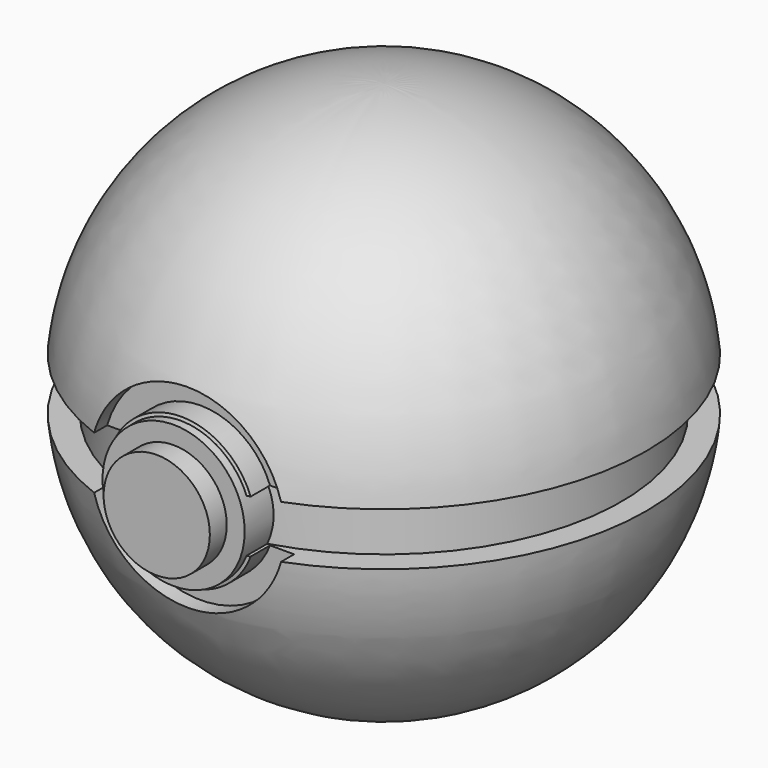
from build123d import *

# Parameters (mm, degrees)
F2_R     = 17.099634
F3_DEPTH = 63.246
F4_R     = 12.78065
F5_DEPTH = 5.08
F6_R     = 23.369036
F6_R_2   = 17.859531
F7_DEPTH = 13.208


with BuildPart() as f1:
    # F0 (on Front) → F1 (revolve)
    with BuildSketch(Plane.XZ):
        with BuildLine():
            Line((0, 63.5), (0, -63.5))
            ThreePointArc((0, -63.5), (42.597095, -47.09286), (63.181702, -6.35))
            Line((63.181702, -6.35), (57.15, -6.35))
            Line((57.15, -6.35), (57.15, 0))
            Line((57.15, 0), (57.15, 6.35))
            Line((57.15, 6.35), (63.181702, 6.35))
            ThreePointArc((63.181702, 6.35), (42.597095, 47.09286), (0, 63.5))
        make_face()
    revolve(axis=Axis((0, 0, 0), (0, 0, -1)))

    # F2 (on Front) → F3 (join)
    with BuildSketch(Plane.XZ):
        Circle(F2_R)
    extrude(amount=F3_DEPTH)

    # F4 (on face) → F5 (join)
    with BuildSketch(Plane.XZ.offset(63.246)):
        Circle(F4_R)
    extrude(amount=F5_DEPTH)

    # F6 (on face) → F7 (cut)
    with BuildSketch(Plane.XZ.offset(68.326)):
        Circle(F6_R)
        Circle(F6_R_2, mode=Mode.SUBTRACT)
    extrude(amount=-F7_DEPTH, mode=Mode.SUBTRACT)


solid = f1.part
